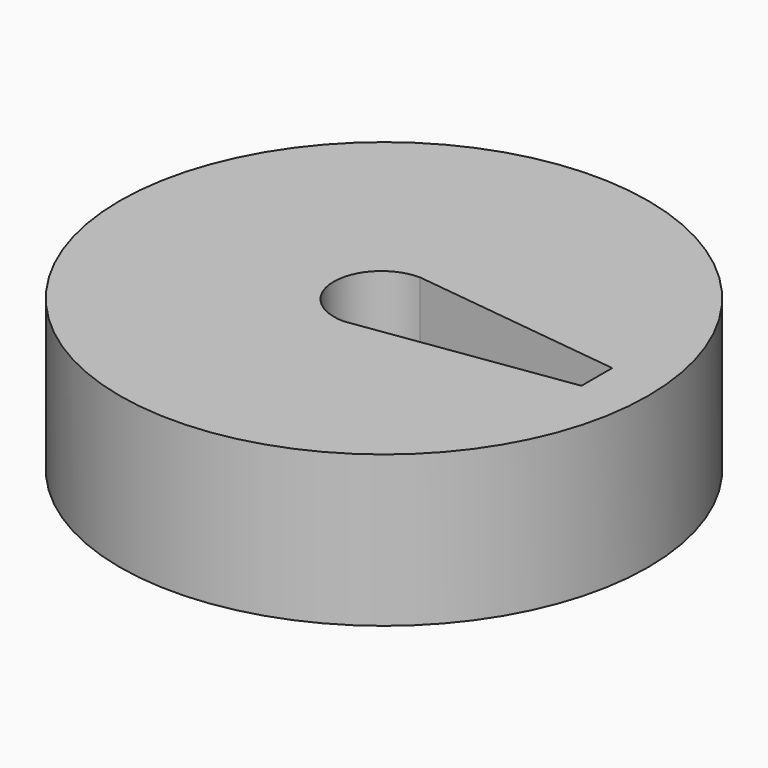
from build123d import *

# Parameters (mm, degrees)
F0_R     = 44.45
F1_DEPTH = 25.4


with BuildPart() as f1:
    # F0 (on Top) → F1 (new body)
    with BuildSketch(Plane.XY):
        Circle(F0_R)
        with BuildLine():
            Line((0, 7.604266), (35.82254, 3.2385))
            Line((35.82254, 3.2385), (35.82254, -3.2385))
            Line((35.82254, -3.2385), (0, -8.421738))
            ThreePointArc((0, -8.421738), (-8.11946, -0.408736), (0, 7.604266))
        make_face(mode=Mode.SUBTRACT)
    extrude(amount=F1_DEPTH)


solid = f1.part
